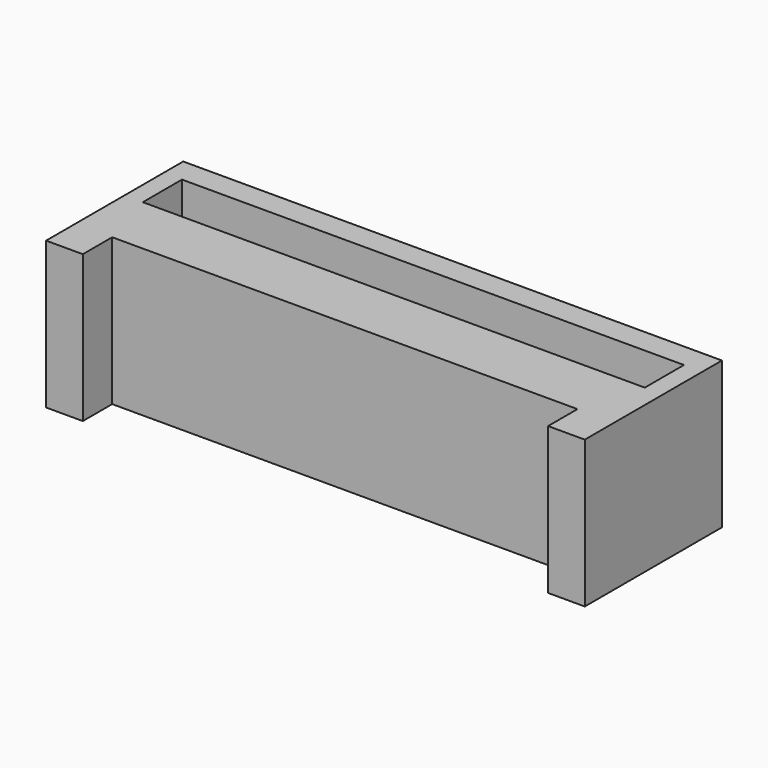
from build123d import *

# Parameters (mm, degrees)
F0_W     = 22
F0_H     = 7
F1_DEPTH = 6
F2_W     = 20.5
F2_H     = 2
F3_DEPTH = 4
F4_W     = 19
F4_H     = 6
F5_DEPTH = 1.5


with BuildPart() as f1:
    # F0 (on Top) → F1 (new body)
    with BuildSketch(Plane.XY):
        Rectangle(F0_W, F0_H)
    extrude(amount=F1_DEPTH)

    # F2 (on face) → F3 (cut)
    with BuildSketch(Plane.XY.offset(6)):
        with Locations((0, 1.5)):
            Rectangle(F2_W, F2_H)
    extrude(amount=-F3_DEPTH, mode=Mode.SUBTRACT)

    # F4 (on face) → F5 (cut)
    with BuildSketch(Plane.XZ.offset(3.5)):
        with Locations((0, 3)):
            Rectangle(F4_W, F4_H)
    extrude(amount=-F5_DEPTH, mode=Mode.SUBTRACT)


solid = f1.part
